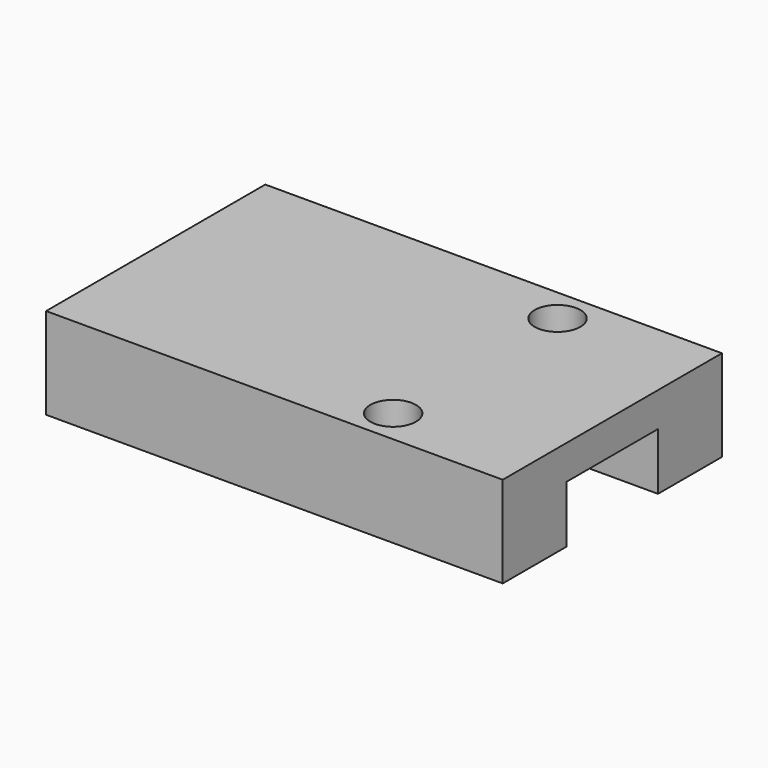
from build123d import *

# Parameters (mm, degrees)
F0_W     = 127
F0_H     = 76.2
F1_DEPTH = 25.4
F2_W     = 127
F2_H     = 31.75
F3_DEPTH = 15.875
F4_R     = 6.35
F5_DEPTH = 25.401


with BuildPart() as f1:
    # F0 (on Top) → F1 (new body)
    with BuildSketch(Plane.XY):
        Rectangle(F0_W, F0_H)
    extrude(amount=F1_DEPTH)

    # F2 (on face) → F3 (cut)
    with BuildSketch(Plane(origin=(0, 0, 0), x_dir=(1, 0, 0), z_dir=(0, 0, -1))):
        Rectangle(F2_W, F2_H)
    extrude(amount=-F3_DEPTH, mode=Mode.SUBTRACT)

    # F4 (on face) → F5 (cut, through all)
    with BuildSketch(Plane.XY.offset(25.4)):
        with Locations((25.4, 28.575)):
            Circle(F4_R)
        with Locations((25.4, -28.575)):
            Circle(F4_R)
    extrude(amount=-F5_DEPTH, mode=Mode.SUBTRACT)


solid = f1.part
